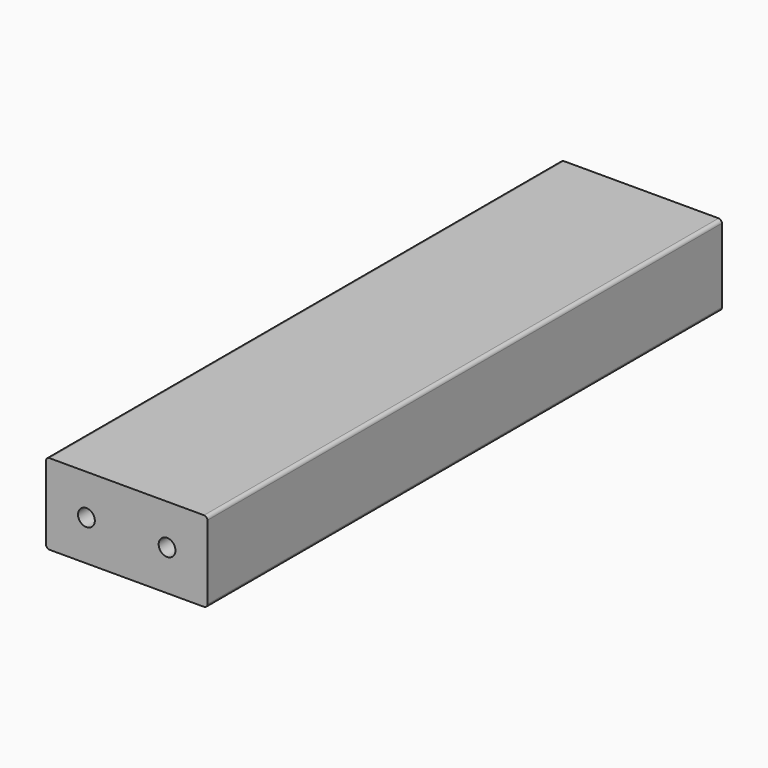
from build123d import *

# Parameters (mm, degrees)
F1_DEPTH = 151.892
F2_R     = 3.96875
F3_DEPTH = 303.785


with BuildPart() as f1:
    # F0 (on Front) → F1 (new body, symmetric)
    with BuildSketch(Plane.XZ):
        with BuildLine():
            ThreePointArc((38.1, 17.4625), (37.6350320151, 18.5850320151), (36.5125, 19.05))
            Line((36.5125, 19.05), (-36.5125, 19.05))
            ThreePointArc((-36.5125, 19.05), (-37.6350320151, 18.5850320151), (-38.1, 17.4625))
            Line((-38.1, 17.4625), (-38.1, -17.4625))
            ThreePointArc((-38.1, -17.4625), (-37.6350320151, -18.5850320151), (-36.5125, -19.05))
            Line((-36.5125, -19.05), (36.5125, -19.05))
            ThreePointArc((36.5125, -19.05), (37.6350320151, -18.5850320151), (38.1, -17.4625))
            Line((38.1, -17.4625), (38.1, 17.4625))
        make_face()
    extrude(amount=F1_DEPTH, both=True)

    # F2 (on face) → F3 (cut, through all)
    with BuildSketch(Plane.XZ.offset(151.892)):
        with BuildLine():
            ThreePointArc((23.01875, 0), (19.05, 3.96875), (15.08125, 0))
            ThreePointArc((15.08125, 0), (19.05, -3.96875), (23.01875, 0))
        make_face()
        with Locations((-19.05, 0)):
            Circle(F2_R)
    extrude(amount=-F3_DEPTH, mode=Mode.SUBTRACT)


solid = f1.part
